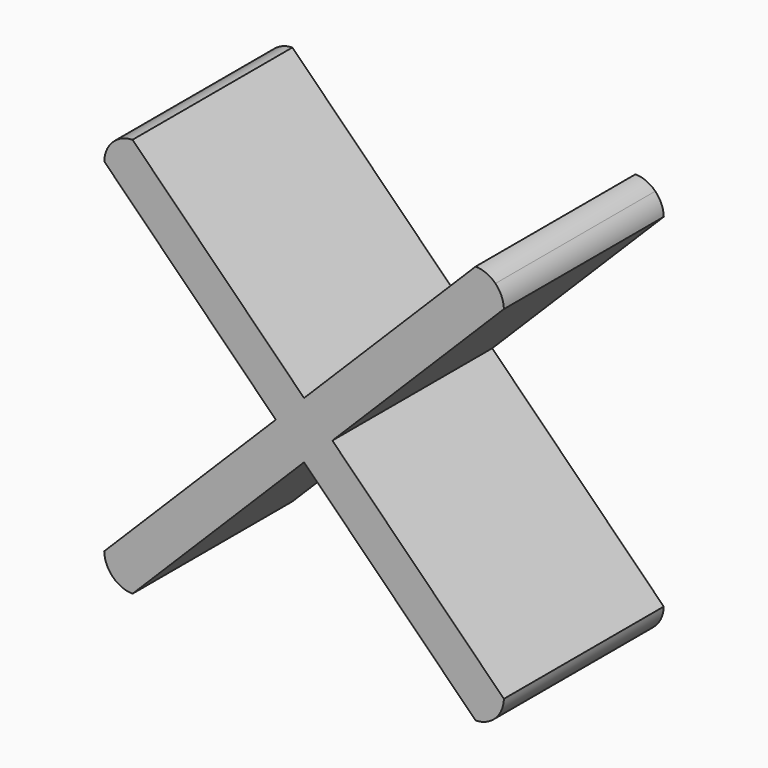
from build123d import *

# Parameters (mm, degrees)
F1_DEPTH = 25.4


with BuildPart() as f1:
    # F0 (on Front) → F1 (new body)
    with BuildSketch(Plane.XZ):
        with BuildLine():
            Line((-1.7960512242, 1.7960512242), (-24.3212742751, 24.3212742751))
            ThreePointArc((-24.3212742751, 24.3212742751), (-25.1022111456, 23.1678047767), (-25.3989050096, 21.8068025612))
            Line((-25.3989050096, 21.8068025612), (-3.5921024484, 0))
            Line((-3.5921024484, 0), (-1.7960512242, 1.7960512242))
        make_face()
        with BuildLine():
            Line((0, 3.5921024484), (-21.8068025612, 25.3989050096))
            ThreePointArc((-21.8068025612, 25.3989050096), (-23.1678047767, 25.1022111456), (-24.3212742751, 24.3212742751))
            Line((-24.3212742751, 24.3212742751), (-1.7960512242, 1.7960512242))
            Line((-1.7960512242, 1.7960512242), (0, 3.5921024484))
        make_face()
        Polygon((0, 0), (-1.7960512242, 1.7960512242), (-3.5921024484, 0), (-1.7960512242, -1.7960512242), align=None)
        Polygon((1.7960512242, 1.7960512242), (0, 3.5921024484), (-1.7960512242, 1.7960512242), (0, 0), align=None)
        Polygon((3.5921024484, 0), (1.7960512242, 1.7960512242), (0, 0), (1.7960512242, -1.7960512242), align=None)
        Polygon((1.7960512242, -1.7960512242), (0, 0), (-1.7960512242, -1.7960512242), (0, -3.5921024484), align=None)
        with BuildLine():
            ThreePointArc((24.3212742751, 24.3212742751), (23.1678047767, 25.1022111456), (21.8068025612, 25.3989050096))
            Line((21.8068025612, 25.3989050096), (0, 3.5921024484))
            Line((0, 3.5921024484), (1.7960512242, 1.7960512242))
            Line((1.7960512242, 1.7960512242), (24.3212742751, 24.3212742751))
        make_face()
        with BuildLine():
            ThreePointArc((25.3989050096, 21.8068025612), (25.1022111456, 23.1678047767), (24.3212742751, 24.3212742751))
            Line((24.3212742751, 24.3212742751), (1.7960512242, 1.7960512242))
            Line((1.7960512242, 1.7960512242), (3.5921024484, 0))
            Line((3.5921024484, 0), (25.3989050096, 21.8068025612))
        make_face()
        with BuildLine():
            Line((25.3989050096, -21.8068025612), (3.5921024484, 0))
            Line((3.5921024484, 0), (1.7960512242, -1.7960512242))
            Line((1.7960512242, -1.7960512242), (24.3212742751, -24.3212742751))
            ThreePointArc((24.3212742751, -24.3212742751), (25.1022111456, -23.1678047767), (25.3989050096, -21.8068025612))
        make_face()
        with BuildLine():
            Line((-1.7960512242, -1.7960512242), (-3.5921024484, 0))
            Line((-3.5921024484, 0), (-25.3989050096, -21.8068025612))
            ThreePointArc((-25.3989050096, -21.8068025612), (-25.1022111456, -23.1678047767), (-24.3212742751, -24.3212742751))
            Line((-24.3212742751, -24.3212742751), (-1.7960512242, -1.7960512242))
        make_face()
        with BuildLine():
            Line((0, -3.5921024484), (-1.7960512242, -1.7960512242))
            Line((-1.7960512242, -1.7960512242), (-24.3212742751, -24.3212742751))
            ThreePointArc((-24.3212742751, -24.3212742751), (-23.1678047767, -25.1022111456), (-21.8068025612, -25.3989050096))
            Line((-21.8068025612, -25.3989050096), (0, -3.5921024484))
        make_face()
        with BuildLine():
            Line((24.3212742751, -24.3212742751), (1.7960512242, -1.7960512242))
            Line((1.7960512242, -1.7960512242), (0, -3.5921024484))
            Line((0, -3.5921024484), (21.8068025612, -25.3989050096))
            ThreePointArc((21.8068025612, -25.3989050096), (23.1678047767, -25.1022111456), (24.3212742751, -24.3212742751))
        make_face()
    extrude(amount=F1_DEPTH)


solid = f1.part
